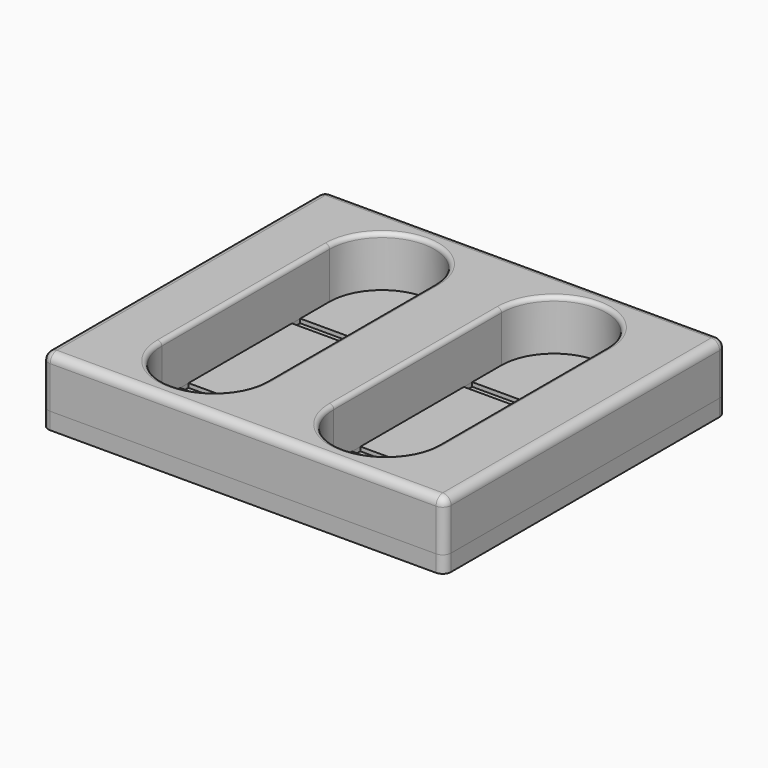
from build123d import *

# Parameters (mm, degrees)
F0_W     = 960
F0_H     = 840
F1_DEPTH = 120
F3_W     = 960
F3_H     = 840
F3_W_2   = 250
F3_H_2   = 25
F4_DEPTH = 40
F5_DEPTH = 30
F6_R     = 10
F7_R     = 20
F7_2_R   = 20


with BuildPart() as f1:
    # F0 (on Top) → F1 (new body)
    with BuildSketch(Plane.XY):
        with Locations((433.4244423313, 250)):
            Rectangle(F0_W, F0_H)
        with BuildLine():
            Line((103.4244423313, 420.3051773067), (103.4244423313, 500.0000000002))
            ThreePointArc((103.4244423313, 500.0000000002), (140.0360946831, 588.3883476484), (228.4244423313, 625))
            ThreePointArc((228.4244423313, 625), (316.8127899797, 588.3883476483), (353.4244423313, 500))
            Line((353.4244423313, 500), (353.4244423313, 420.1408478891))
            Line((353.4244423313, 420.1408478891), (353.4244423313, 419.9584157775))
            Line((353.4244423313, 419.9584157775), (353.4244423313, 0))
            ThreePointArc((353.4244423313, 0), (316.8127899796, -88.3883476482), (228.4244423313, -124.9999999998))
            ThreePointArc((228.4244423313, -124.9999999998), (140.036094683, -88.3883476481), (103.4244423313, 2e-10))
            Line((103.4244423313, 2e-10), (103.4244423313, 420))
            Line((103.4244423313, 420), (103.4244423313, 420.1321723057))
            Line((103.4244423313, 420.1321723057), (103.4244423313, 420.3051773067))
        make_face(mode=Mode.SUBTRACT)
        with BuildLine():
            Line((513.4244423313, 0), (513.4244423313, 500))
            ThreePointArc((513.4244423313, 500), (550.036094683, 588.3883476483), (638.4244423313, 625))
            ThreePointArc((638.4244423313, 625), (726.8127899797, 588.3883476483), (763.4244423313, 500))
            Line((763.4244423313, 500), (763.4244423313, 0))
            ThreePointArc((763.4244423313, 0), (726.8127899797, -88.3883476483), (638.4244423313, -125))
            ThreePointArc((638.4244423313, -125), (550.036094683, -88.3883476483), (513.4244423313, 0))
        make_face(mode=Mode.SUBTRACT)
    extrude(amount=F1_DEPTH)

    # F6
    f6_edges = [f1.edges().sort_by_distance(p)[0] for p in [
        (353.424442, 250, 120),
        (763.424442, 250, 120),
    ]]
    fillet(f6_edges, radius=F6_R)

    # F7
    f7_edges = [f1.edges().sort_by_distance(p)[0] for p in [
        (433.424442, -170, 120),
        (-46.575558, 250, 120),
        (433.424442, 670, 120),
        (913.424442, 250, 120),
        (-46.575558, -170, 60),
        (913.424442, -170, 60),
        (913.424442, 670, 60),
        (-46.575558, 670, 60),
    ]]
    fillet(f7_edges, radius=F7_R)


with BuildPart() as f4:
    # F3 (on offset) → F4 (new body)
    with BuildSketch(Plane.XY.offset(-40)):
        with Locations((432.9981575906, 250.189127326)):
            Rectangle(F3_W, F3_H)
        with Locations((227.9981575906, 67.2548420727)):
            Rectangle(F3_W_2, F3_H_2, mode=Mode.SUBTRACT)
        with Locations((637.9981575906, 67.2548420727)):
            Rectangle(F3_W_2, F3_H_2, mode=Mode.SUBTRACT)
        with Locations((227.9981575906, 400.4480063915)):
            Rectangle(F3_W_2, F3_H_2, mode=Mode.SUBTRACT)
        with Locations((637.9981575906, 400.4480063915)):
            Rectangle(F3_W_2, F3_H_2, mode=Mode.SUBTRACT)
    extrude(amount=F4_DEPTH)

    # F3 (on offset) → F5 (join)
    with BuildSketch(Plane.XY.offset(-40)):
        with Locations((227.9981575906, 400.4480063915)):
            Rectangle(F3_W_2, F3_H_2)
        with Locations((637.9981575906, 400.4480063915)):
            Rectangle(F3_W_2, F3_H_2)
        with Locations((227.9981575906, 67.2548420727)):
            Rectangle(F3_W_2, F3_H_2)
        with Locations((637.9981575906, 67.2548420727)):
            Rectangle(F3_W_2, F3_H_2)
    extrude(amount=F5_DEPTH)

    # F7#2
    f7_2_edges = [f4.edges().sort_by_distance(p)[0] for p in [
        (-47.001842, -169.810873, -20),
        (912.998158, -169.810873, -20),
        (912.998158, 670.189127, -20),
        (-47.001842, 670.189127, -20),
    ]]
    fillet(f7_2_edges, radius=F7_2_R)


solid = Compound([f1.part, f4.part])
